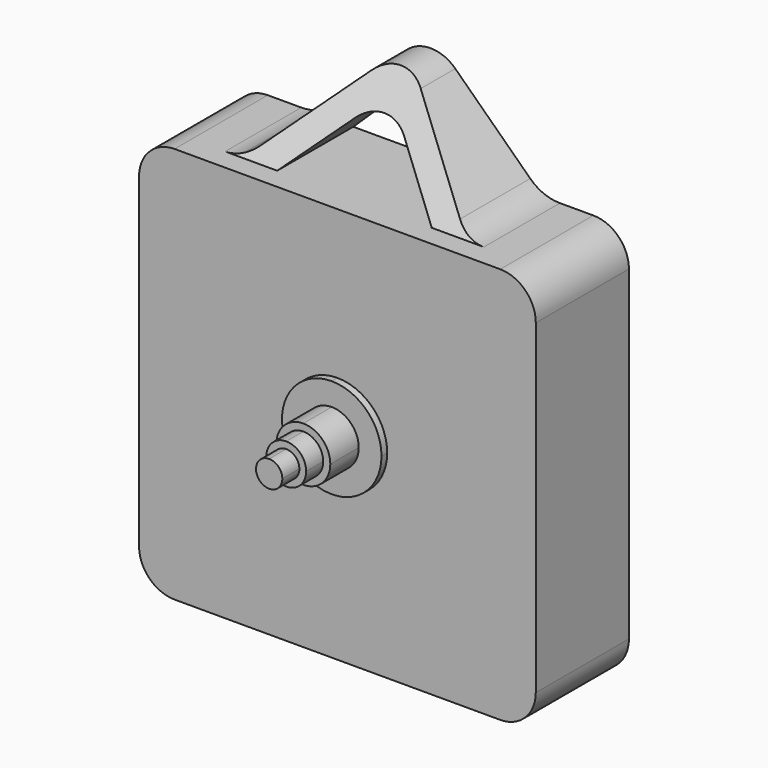
from build123d import *

# Parameters (mm, degrees)
F1_DEPTH  = 16.38
F4_DEPTH  = 55.801
F5_DEPTH  = 1
F6_DEPTH  = 6
F7_R      = 0.5
F8_DEPTH  = 12
F9_DEPTH  = 9
F10_DEPTH = 12


with BuildPart() as f1:
    # F0 (on Front) → F1 (new body)
    with BuildSketch(Plane.XZ):
        with BuildLine():
            Line((-22.9, -27.9), (22.9, -27.9))
            ThreePointArc((22.9, -27.9), (26.435534, -26.435534), (27.9, -22.9))
            Line((27.9, -22.9), (27.9, 22.9))
            ThreePointArc((27.9, 22.9), (26.435534, 26.435534), (22.9, 27.9))
            Line((22.9, 27.9), (18.18869, 27.9))
            ThreePointArc((18.18869, 27.9), (15.941423, 28.336746), (14.021318, 29.583403))
            Line((14.021318, 29.583403), (3.47281, 39.767246))
            ThreePointArc((3.47281, 39.767246), (0, 41.170082), (-3.47281, 39.767246))
            Line((-3.47281, 39.767246), (-14.021318, 29.583403))
            ThreePointArc((-14.021318, 29.583403), (-14.841456, 28.920439), (-15.765, 28.411309))
            ThreePointArc((-15.765, 28.411309), (-16.950172, 28.029219), (-18.18869, 27.9))
            Line((-18.18869, 27.9), (-22.9, 27.9))
            ThreePointArc((-22.9, 27.9), (-26.435534, 26.435534), (-27.9, 22.9))
            Line((-27.9, 22.9), (-27.9, -22.9))
            ThreePointArc((-27.9, -22.9), (-26.435534, -26.435534), (-22.9, -27.9))
        make_face()
        with BuildLine():
            ThreePointArc((0, 7), (4.949747, 4.949747), (7, 0))
            ThreePointArc((7, 0), (-4.949747, -4.949747), (0, 7))
        make_face(mode=Mode.SUBTRACT)
        with BuildLine():
            Line((10.869828, 27.9), (-10.869828, 27.9))
            Line((-10.869828, 27.9), (-3.47281, 35.041302))
            ThreePointArc((-3.47281, 35.041302), (0, 36.444137), (3.47281, 35.041302))
            Line((3.47281, 35.041302), (10.869828, 27.9))
        make_face(mode=Mode.SUBTRACT)
        with BuildLine():
            ThreePointArc((0, 7), (-4.949747, -4.949747), (7, 0))
            ThreePointArc((7, 0), (4.949747, 4.949747), (0, 7))
        make_face()
        with BuildLine():
            ThreePointArc((3.8, 0), (-2.687006, -2.687006), (0, 3.8))
            ThreePointArc((0, 3.8), (2.687006, 2.687006), (3.8, 0))
        make_face(mode=Mode.SUBTRACT)
        with BuildLine():
            ThreePointArc((3.8, 0), (2.687006, 2.687006), (0, 3.8))
            ThreePointArc((0, 3.8), (-2.687006, -2.687006), (3.8, 0))
        make_face()
        with BuildLine():
            ThreePointArc((2.8, 0), (-1.979899, -1.979899), (0, 2.8))
            ThreePointArc((0, 2.8), (1.979899, 1.979899), (2.8, 0))
        make_face(mode=Mode.SUBTRACT)
        with BuildLine():
            ThreePointArc((2.8, 0), (1.979899, 1.979899), (0, 2.8))
            ThreePointArc((0, 2.8), (-1.979899, -1.979899), (2.8, 0))
        make_face()
        with BuildLine():
            ThreePointArc((1.85, 0), (-1.308148, -1.308148), (0, 1.85))
            ThreePointArc((0, 1.85), (1.308148, 1.308148), (1.85, 0))
        make_face(mode=Mode.SUBTRACT)
        with BuildLine():
            ThreePointArc((1.85, 0), (1.308148, 1.308148), (0, 1.85))
            ThreePointArc((0, 1.85), (-1.308148, -1.308148), (1.85, 0))
        make_face()
    extrude(amount=-F1_DEPTH)

    # F3 (on offset) → F4 (cut, through all)
    with BuildSketch(Plane.YZ.offset(27.9)):
        Polygon((0, 44.834), (0, 27.9), (3, 27.9), (13.421, 44.834), align=None)
    extrude(amount=-F4_DEPTH, mode=Mode.SUBTRACT)

    # F0 (on Front) → F5 (join)
    with BuildSketch(Plane.XZ):
        with BuildLine():
            ThreePointArc((0, 7), (-4.949747, -4.949747), (7, 0))
            ThreePointArc((7, 0), (4.949747, 4.949747), (0, 7))
        make_face()
        with BuildLine():
            ThreePointArc((3.8, 0), (-2.687006, -2.687006), (0, 3.8))
            ThreePointArc((0, 3.8), (2.687006, 2.687006), (3.8, 0))
        make_face(mode=Mode.SUBTRACT)
    extrude(amount=F5_DEPTH)


with BuildPart() as f6:
    # F0 (on Front) → F6 (new body)
    with BuildSketch(Plane.XZ):
        with BuildLine():
            ThreePointArc((3.8, 0), (2.687006, 2.687006), (0, 3.8))
            ThreePointArc((0, 3.8), (-2.687006, -2.687006), (3.8, 0))
        make_face()
        with BuildLine():
            ThreePointArc((2.8, 0), (-1.979899, -1.979899), (0, 2.8))
            ThreePointArc((0, 2.8), (1.979899, 1.979899), (2.8, 0))
        make_face(mode=Mode.SUBTRACT)
    extrude(amount=F6_DEPTH)


with BuildPart() as f8:
    # F7 (on face) → F8 (new body)
    with BuildSketch(Plane.XZ):
        Circle(F7_R)
    extrude(amount=F8_DEPTH)


with BuildPart() as f9:
    # F0 (on Front) → F9 (new body)
    with BuildSketch(Plane.XZ):
        with BuildLine():
            ThreePointArc((2.8, 0), (1.979899, 1.979899), (0, 2.8))
            ThreePointArc((0, 2.8), (-1.979899, -1.979899), (2.8, 0))
        make_face()
        with BuildLine():
            ThreePointArc((1.85, 0), (-1.308148, -1.308148), (0, 1.85))
            ThreePointArc((0, 1.85), (1.308148, 1.308148), (1.85, 0))
        make_face(mode=Mode.SUBTRACT)
    extrude(amount=F9_DEPTH)


with BuildPart() as f10:
    # F0 (on Front) → F10 (new body)
    with BuildSketch(Plane.XZ):
        with BuildLine():
            ThreePointArc((1.85, 0), (1.308148, 1.308148), (0, 1.85))
            ThreePointArc((0, 1.85), (-1.308148, -1.308148), (1.85, 0))
        make_face()
    extrude(amount=F10_DEPTH)


solid = Compound([f1.part, f6.part, f8.part, f9.part, f10.part])
